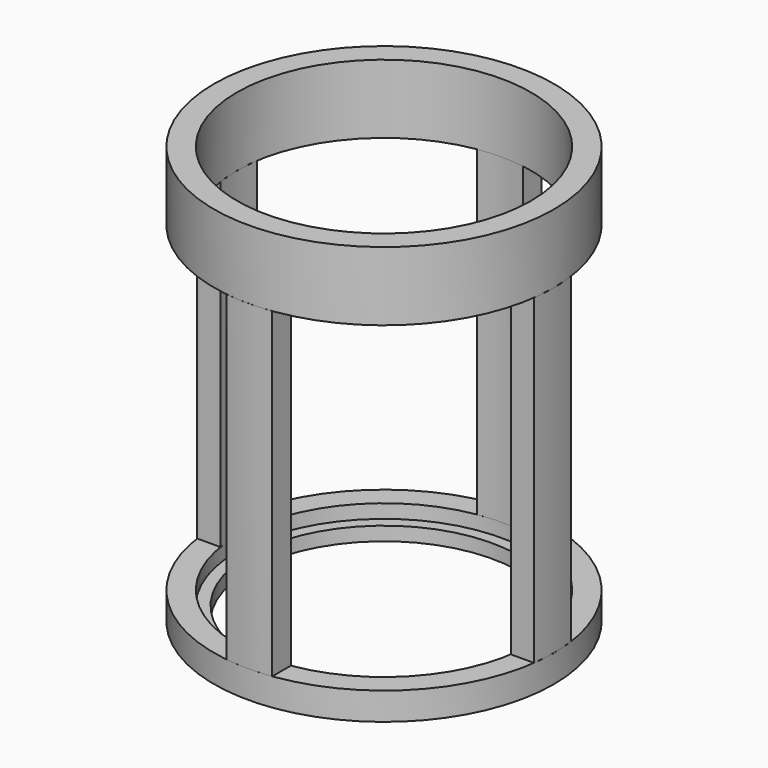
from build123d import *

# Parameters (mm, degrees)
F0_R      = 18.5
F0_R_2    = 14.75
F1_DEPTH  = 45
F2_R      = 16
F2_R_2    = 14.75
F3_DEPTH  = 43
F5_W      = 34.343095
F5_H      = 5
F5_W_2    = 5
F5_H_2    = 31.673071
F6_DEPTH  = 35
F7_R      = 18.5
F7_R_2    = 14.75
F8_DEPTH  = 3
F10_R     = 18.5
F10_R_2   = 16
F11_DEPTH = 7.5
F12_R     = 16
F13_DEPTH = 1.5


with BuildPart() as f1:
    # F0 (on Top) → F1 (new body)
    with BuildSketch(Plane.XY):
        Circle(F0_R)
        Circle(F0_R_2, mode=Mode.SUBTRACT)
    extrude(amount=F1_DEPTH)

    # F2 (on face) → F3 (cut)
    with BuildSketch(Plane.XY.offset(45)):
        Circle(F2_R)
        Circle(F2_R_2, mode=Mode.SUBTRACT)
    extrude(amount=-F3_DEPTH, mode=Mode.SUBTRACT)

    # F5 (on offset) → F6 (intersect)
    with BuildSketch(Plane.XY.offset(3)):
        with Locations((19.671547, 0)):
            Rectangle(F5_W, F5_H)
        with Locations((0, 18.336536)):
            Rectangle(F5_W_2, F5_H_2)
        with Locations((-19.671547, 0)):
            Rectangle(F5_W, F5_H)
        with Locations((0, -18.336536)):
            Rectangle(F5_W_2, F5_H_2)
    extrude(amount=F6_DEPTH, mode=Mode.INTERSECT)


with BuildPart() as f8:
    # F7 (on Top) → F8 (new body)
    with BuildSketch(Plane.XY):
        Circle(F7_R)
        Circle(F7_R_2, mode=Mode.SUBTRACT)
    extrude(amount=F8_DEPTH)

    # F12 (on face) → F13 (cut)
    with BuildSketch(Plane.XY.offset(3)):
        Circle(F12_R)
    extrude(amount=-F13_DEPTH, mode=Mode.SUBTRACT)


with BuildPart() as f11:
    # F10 (on offset) → F11 (new body)
    with BuildSketch(Plane.XY.offset(38)):
        Circle(F10_R)
        Circle(F10_R_2, mode=Mode.SUBTRACT)
    extrude(amount=F11_DEPTH)


solid = Compound([f1.part, f8.part, f11.part])
